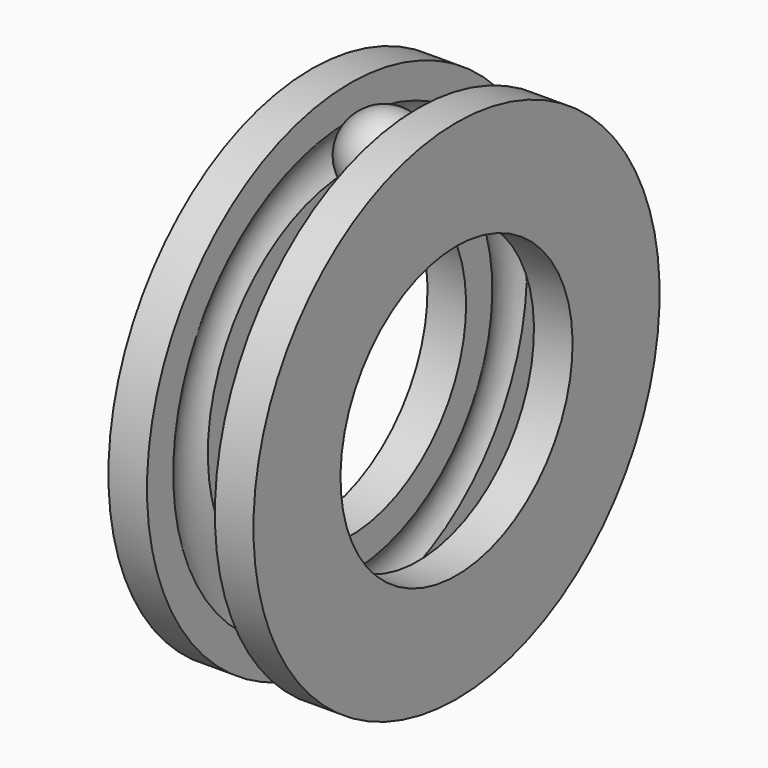
from build123d import *

# Parameters (mm, degrees)
F7_COUNT = 13


with BuildPart() as f1:
    # F0 (on Front) → F1 (revolve)
    with BuildSketch(Plane.XZ):
        with BuildLine():
            Line((-2.66, 10), (0, 10))
            Line((0, 10), (0, 17.5))
            Line((0, 17.5), (-2.66, 17.5))
            Line((-2.66, 17.5), (-2.66, 15.241652))
            ThreePointArc((-2.66, 15.241652), (-2.225, 13.75), (-2.66, 12.258348))
            Line((-2.66, 12.258348), (-2.66, 10))
        make_face()
    revolve(axis=Axis((-1.33, 0, 0), (1, 0, 0)))


with BuildPart() as f3:
    # F2 (on Front) → F3 (revolve)
    with BuildSketch(Plane.XZ):
        with BuildLine():
            Line((-10, 10), (-7.34, 10))
            Line((-7.34, 10), (-7.34, 12.258348))
            ThreePointArc((-7.34, 12.258348), (-7.775, 13.75), (-7.34, 15.241652))
            Line((-7.34, 15.241652), (-7.34, 17.5))
            Line((-7.34, 17.5), (-10, 17.5))
            Line((-10, 17.5), (-10, 10))
        make_face()
    revolve(axis=Axis((-5, 0, 0), (-1, 0, 0)))


with BuildPart() as f5:
    # F4 (on Right) → F5 (revolve)
    with BuildSketch(Plane.YZ):
        with BuildLine():
            Line((0, 16.65), (0, 11.1))
            ThreePointArc((0, 11.1), (2.775, 13.875), (0, 16.65))
        make_face()
    revolve(axis=Axis((0, 0, 13.875), (0, 0, -1)))


with BuildPart() as f5_1:
    # F6: moved
    add(f5.part.moved(Location((-5, 0, 0))))


with BuildPart() as f7_1:
    # F7: instance of F5
    add(f5_1.part.rotate(Axis((-7.34, 0, 0), (1, 0, 0)), 1 * 360 / F7_COUNT))


with BuildPart() as f7_2:
    # F7: instance of F5
    add(f5_1.part.rotate(Axis((-7.34, 0, 0), (1, 0, 0)), 2 * 360 / F7_COUNT))


with BuildPart() as f7_3:
    # F7: instance of F5
    add(f5_1.part.rotate(Axis((-7.34, 0, 0), (1, 0, 0)), 3 * 360 / F7_COUNT))


with BuildPart() as f7_4:
    # F7: instance of F5
    add(f5_1.part.rotate(Axis((-7.34, 0, 0), (1, 0, 0)), 4 * 360 / F7_COUNT))


with BuildPart() as f7_5:
    # F7: instance of F5
    add(f5_1.part.rotate(Axis((-7.34, 0, 0), (1, 0, 0)), 5 * 360 / F7_COUNT))


with BuildPart() as f7_6:
    # F7: instance of F5
    add(f5_1.part.rotate(Axis((-7.34, 0, 0), (1, 0, 0)), 6 * 360 / F7_COUNT))


with BuildPart() as f7_7:
    # F7: instance of F5
    add(f5_1.part.rotate(Axis((-7.34, 0, 0), (1, 0, 0)), 7 * 360 / F7_COUNT))


with BuildPart() as f7_8:
    # F7: instance of F5
    add(f5_1.part.rotate(Axis((-7.34, 0, 0), (1, 0, 0)), 8 * 360 / F7_COUNT))


with BuildPart() as f7_9:
    # F7: instance of F5
    add(f5_1.part.rotate(Axis((-7.34, 0, 0), (1, 0, 0)), 9 * 360 / F7_COUNT))


with BuildPart() as f7_10:
    # F7: instance of F5
    add(f5_1.part.rotate(Axis((-7.34, 0, 0), (1, 0, 0)), 10 * 360 / F7_COUNT))


with BuildPart() as f7_11:
    # F7: instance of F5
    add(f5_1.part.rotate(Axis((-7.34, 0, 0), (1, 0, 0)), 11 * 360 / F7_COUNT))


with BuildPart() as f7_12:
    # F7: instance of F5
    add(f5_1.part.rotate(Axis((-7.34, 0, 0), (1, 0, 0)), 12 * 360 / F7_COUNT))


solid = Compound([f1.part, f3.part, f5_1.part])
